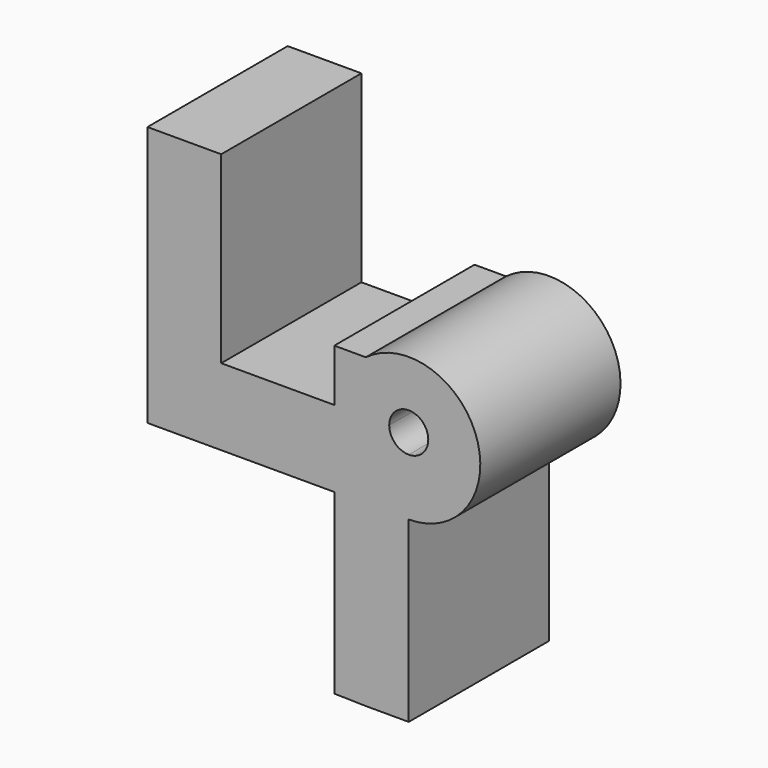
from build123d import *

# Parameters (mm, degrees)
F0_W     = 32.7782332897
F0_H     = 22.1979245543
F0_W_2   = 9.1281086206
F0_H_2   = 15.1443630457
F0_W_3   = 12.4474614859
F0_H_3   = 51.6568273306
F1_DEPTH = 50.8


with BuildPart() as f1:
    # F0 (on Front) → F1 (new body)
    with BuildSketch(Plane.XZ):
        Polygon((-54.3538033962, 75.5144134164), (-75.7218897343, 75.5144134164), (-75.7218897343, 0), (-54.3538033962, 0), (-54.3538033962, 22.1979245543), align=None)
        with Locations((-37.9646867514, 11.0989622772)):
            Rectangle(F0_W, F0_H)
        with Locations((-17.0115157962, 29.7701060772)):
            Rectangle(F0_W_2, F0_H_2)
        with Locations((-17.0115157962, 11.0989622772)):
            Rectangle(F0_W_2, F0_H)
        Polygon((-12.4474614859, 0), (-21.5755701065, 0), (-21.5755701065, -51.4493584633), (-12.4474614859, -51.6568273306), align=None)
        with BuildLine():
            Line((-12.4474614859, 37.3422876), (-12.4474614859, 22.1979245543))
            Line((-12.4474614859, 22.1979245543), (-5.662457365, 22.1979245543))
            ThreePointArc((-5.662457365, 22.1979245543), (0, 27.8603819194), (5.662457365, 22.1979245543))
            ThreePointArc((5.662457365, 22.1979245543), (4.003962001, 18.1939625534), (0, 16.5354671893))
            Line((0, 16.5354671893), (0, 0))
            ThreePointArc((0, 0), (19.6811187477, 27.3061160274), (-12.4474614859, 37.3422876))
        make_face()
        with BuildLine():
            Line((-5.662457365, 22.1979245543), (-12.4474614859, 22.1979245543))
            Line((-12.4474614859, 22.1979245543), (-12.4474614859, 0))
            Line((-12.4474614859, 0), (0, 0))
            Line((0, 0), (0, 16.5354671893))
            ThreePointArc((0, 16.5354671893), (-4.003962001, 18.1939625534), (-5.662457365, 22.1979245543))
        make_face()
        with Locations((-6.2237307429, -25.8284136653)):
            Rectangle(F0_W_3, F0_H_3)
    extrude(amount=F1_DEPTH)


solid = f1.part
